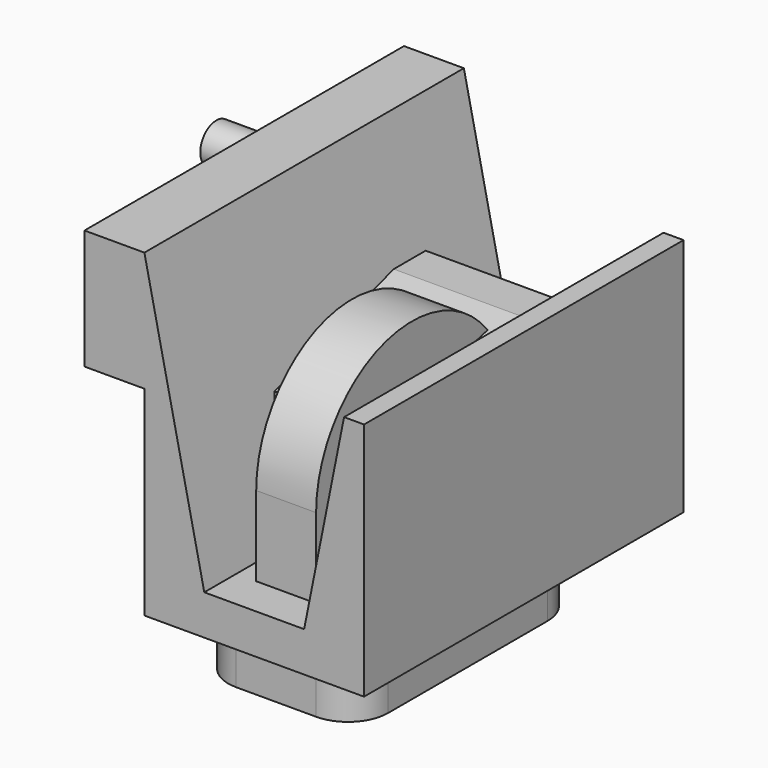
from build123d import *

# Parameters (mm, degrees)
F1_DEPTH      = 100
F4_DEPTH      = 20.5
F4_DEPTH_BACK = 21.0714285714
F6_DEPTH      = 7.5
F6_DEPTH_BACK = 7.5
F7_W          = 15
F7_H          = 30
F8_DEPTH      = 100
F9_R          = 5
F10_DEPTH     = 15
F11_W         = 40
F11_H         = 70
F12_DEPTH     = 15
F13_R         = 10
F15_DEPTH     = 15


with BuildPart() as f1:
    # F0 (on Front) → F1 (new body)
    with BuildSketch(Plane.XZ):
        Polygon((15, 10), (0, 80), (0, 0), (55, 0), (55, 60), (50, 60), (40, 10), align=None)
    extrude(amount=-F1_DEPTH)

    # F3 (on offset) → F4 (join, two sides)
    with BuildSketch(Plane.YZ.offset(27.5)) as f4_sk:
        Polygon((30, 40), (21.9615242271, 10), (90, 10), (80, 50), (70, 50), align=None)
    extrude(amount=F4_DEPTH)
    extrude(f4_sk.sketch, amount=-F4_DEPTH_BACK)

    # F5 (on offset) → F6 (join, two sides)
    with BuildSketch(Plane.YZ.offset(27.5)) as f6_sk:
        with BuildLine():
            Line((10, 0), (40, 0))
            ThreePointArc((40, 0), (61.2132034356, 51.2132034356), (10, 30))
            Line((10, 30), (10, 0))
        make_face()
    extrude(amount=F6_DEPTH)
    extrude(f6_sk.sketch, amount=-F6_DEPTH_BACK)

    # F7 (on face) → F8 (join)
    with BuildSketch(Plane.XZ):
        with Locations((-7.5, 65)):
            Rectangle(F7_W, F7_H)
    extrude(amount=-F8_DEPTH)

    # F9 (on face) → F10 (join)
    with BuildSketch(Plane(origin=(-15, 0, 0), x_dir=(0, -1, 0), z_dir=(-1, 0, 0))):
        with Locations((-60, 70)):
            Circle(F9_R)
    extrude(amount=F10_DEPTH)

    # F11 (on face) → F12 (join)
    with BuildSketch(Plane(origin=(0, 0, 0), x_dir=(1, 0, 0), z_dir=(0, 0, -1))):
        with Locations((25, -45)):
            Rectangle(F11_W, F11_H)
    extrude(amount=F12_DEPTH)

    # F13
    f13_edges = [f1.edges().sort_by_distance(p)[0] for p in [
        (45, 10, -7.5),
        (5, 10, -7.5),
        (45, 80, -7.5),
        (5, 80, -7.5),
    ]]
    fillet(f13_edges, radius=F13_R)

    # F14 (on face) → F15 (cut)
    with BuildSketch(Plane(origin=(0, 0, -15), x_dir=(1, 0, 0), z_dir=(0, 0, -1))):
        with BuildLine():
            Line((8, -20), (8, -70))
            ThreePointArc((8, -70), (10.0502525317, -74.9497474683), (15, -77))
            Line((15, -77), (35, -77))
            ThreePointArc((35, -77), (39.9497474683, -74.9497474683), (42, -70))
            Line((42, -70), (42, -20))
            ThreePointArc((42, -20), (39.9497474683, -15.0502525317), (35, -13))
            Line((35, -13), (15, -13))
            ThreePointArc((15, -13), (10.0502525317, -15.0502525317), (8, -20))
        make_face()
    extrude(amount=-F15_DEPTH, mode=Mode.SUBTRACT)


solid = f1.part
